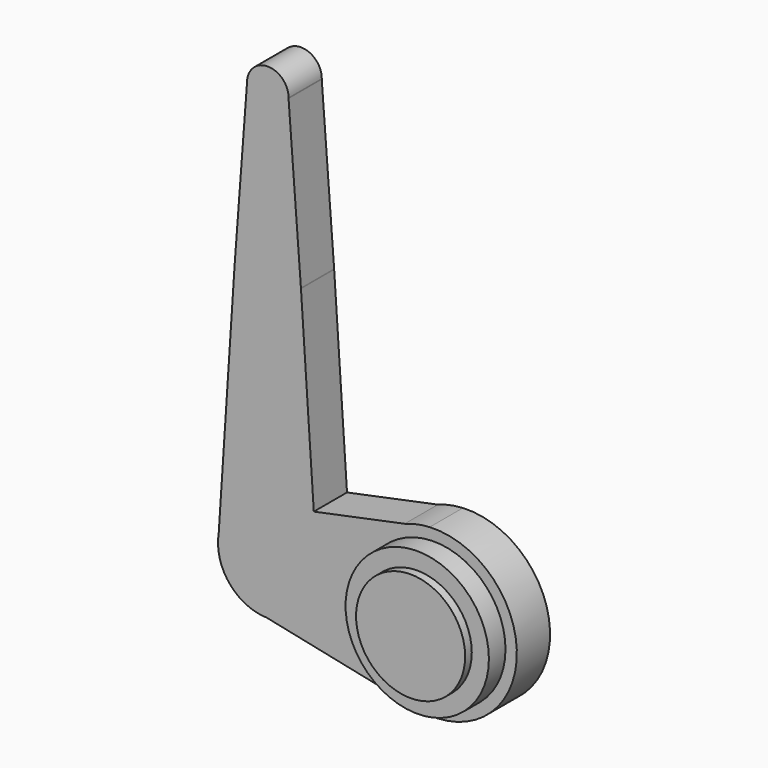
from build123d import *

# Parameters (mm, degrees)
F1_DEPTH = 50
F2_R     = 86.3227416046
F3_DEPTH = 25
F4_R     = 65.7159407402
F5_DEPTH = 10


with BuildPart() as f1:
    # F0 (on Front) → F1 (new body)
    with BuildSketch(Plane.XZ):
        with BuildLine():
            ThreePointArc((-20.4931345241, -198.7868681146), (63.0503233441, -178.5278953222), (100, -100.9092330933))
            ThreePointArc((100, -100.9092330933), (68.9263499461, -28.4581579936), (-4.983165662, -1.0334699673))
            Line((-4.983165662, -1.0334699673), (-35.1463871142, -7.2890885045))
            ThreePointArc((-35.1463871142, -7.2890885045), (-99.7085201522, -108.5388470457), (-20.4931345241, -198.7868681146))
        make_face()
        with BuildLine():
            Line((-35.1463871142, -7.2890885045), (-4.983165662, -1.0334699673))
            ThreePointArc((-4.983165662, -1.0334699673), (-20.307103248, -2.9928322317), (-35.1463871142, -7.2890885045))
        make_face()
        with BuildLine():
            Line((-201.4895329203, -160.8907410076), (-20.4931345241, -198.7868681146))
            ThreePointArc((-20.4931345241, -198.7868681146), (-99.7085201522, -108.5388470457), (-35.1463871142, -7.2890885045))
            Line((-35.1463871142, -7.2890885045), (-144.6050883957, -29.989975473))
            Line((-144.6050883957, -29.989975473), (-140.1335041643, -96.908898563))
            ThreePointArc((-140.1335041643, -96.908898563), (-140.0333853292, -98.9079522711), (-140, -100.9092330933))
            ThreePointArc((-140, -100.9092330933), (-158.1035322206, -143.8590408648), (-201.4895329203, -160.8907410076))
        make_face()
        with BuildLine():
            ThreePointArc((-259.9795126124, -102.4770553995), (-242.3987093701, -143.3633193954), (-201.4895329203, -160.8907410076))
            ThreePointArc((-201.4895329203, -160.8907410076), (-158.1035322206, -143.8590408648), (-140, -100.9092330933))
            ThreePointArc((-140, -100.9092330933), (-140.0333853292, -98.9079522711), (-140.1335041643, -96.908898563))
            ThreePointArc((-140.1335041643, -96.908898563), (-158.1101162428, -57.9530037568), (-197.505495076, -40.9611101436))
            ThreePointArc((-197.505495076, -40.9611101436), (-237.9912102248, -54.4692939713), (-259.2537512084, -91.4756246778))
            Line((-259.2537512084, -91.4756246778), (-259.9795126124, -102.4770553995))
        make_face()
        with BuildLine():
            Line((-140.1335041643, -96.908898563), (-144.6050883957, -29.989975473))
            Line((-144.6050883957, -29.989975473), (-197.505495076, -40.9611101436))
            ThreePointArc((-197.505495076, -40.9611101436), (-158.1101162428, -57.9530037568), (-140.1335041643, -96.908898563))
        make_face()
        with BuildLine():
            Line((-197.505495076, -40.9611101436), (-144.6050883957, -29.989975473))
            Line((-144.6050883957, -29.989975473), (-160.0662830286, 201.3925594364))
            ThreePointArc((-160.0662830286, 201.3925594364), (-160.016574191, 200.2421402486), (-160, 199.0907669067))
            ThreePointArc((-160, 199.0907669067), (-201.1288321578, 159.1066983549), (-239.936286898, 201.3475320257))
            Line((-239.936286898, 201.3475320257), (-259.2537512084, -91.4756246778))
            ThreePointArc((-259.2537512084, -91.4756246778), (-237.9912102248, -54.4692939713), (-197.505495076, -40.9611101436))
        make_face()
        with BuildLine():
            ThreePointArc((-259.2537512084, -91.4756246778), (-259.8698644546, -96.9596343563), (-259.9795126124, -102.4770553995))
            Line((-259.9795126124, -102.4770553995), (-259.2537512084, -91.4756246778))
        make_face()
        with BuildLine():
            Line((-160.1150603833, 202.1225307119), (-160.0662830286, 201.3925594364))
            ThreePointArc((-160.0662830286, 201.3925594364), (-160.0890027762, 201.7576565936), (-160.1150603833, 202.1225307119))
        make_face()
        with BuildLine():
            ThreePointArc((-160, 199.0907669067), (-160.016574191, 200.2421402486), (-160.0662830286, 201.3925594364))
            Line((-160.0662830286, 201.3925594364), (-160.1150603833, 202.1225307119))
            ThreePointArc((-160.1150603833, 202.1225307119), (-200.0113479884, 239.090765297), (-239.8866534174, 202.0998995332))
            Line((-239.8866534174, 202.0998995332), (-239.936286898, 201.3475320257))
            ThreePointArc((-239.936286898, 201.3475320257), (-201.1288321578, 159.1066983549), (-160, 199.0907669067))
        make_face()
        with BuildLine():
            ThreePointArc((-239.8866534174, 202.0998995332), (-200.0113479884, 239.090765297), (-160.1150603833, 202.1225307119))
            Line((-160.1150603833, 202.1225307119), (-175.0170289676, 398.1681844469))
            ThreePointArc((-175.0170289676, 398.1681844469), (-200.6469460036, 374.0991390912), (-224.9972436015, 399.4619977333))
            Line((-224.9972436015, 399.4619977333), (-239.8866534174, 202.0998995332))
        make_face()
        with BuildLine():
            ThreePointArc((-239.8866534174, 202.0998995332), (-239.9132429698, 201.7238327314), (-239.936286898, 201.3475320257))
            Line((-239.936286898, 201.3475320257), (-239.8866534174, 202.0998995332))
        make_face()
        with BuildLine():
            ThreePointArc((-224.9972436015, 399.4619977333), (-200.6469460036, 374.0991390912), (-175.0170289676, 398.1681844469))
            ThreePointArc((-175.0170289676, 398.1681844469), (-175.0042576044, 398.6293971036), (-175, 399.0907669067))
            ThreePointArc((-175, 399.0907669067), (-198.3044384925, 424.033202056), (-224.7700056939, 402.4740815422))
            Line((-224.7700056939, 402.4740815422), (-224.9972436015, 399.4619977333))
        make_face()
        with BuildLine():
            ThreePointArc((-224.7700056939, 402.4740815422), (-224.9291583858, 400.9714747983), (-224.9972436015, 399.4619977333))
            Line((-224.9972436015, 399.4619977333), (-224.7700056939, 402.4740815422))
        make_face()
    extrude(amount=F1_DEPTH)

    # F2 (on face) → F3 (join)
    with BuildSketch(Plane.XZ.offset(50)):
        with Locations((0, -100.9092330933)):
            Circle(F2_R)
    extrude(amount=F3_DEPTH)

    # F4 (on face) → F5 (join)
    with BuildSketch(Plane.XZ.offset(75)):
        with Locations((0, -100.9092330933)):
            Circle(F4_R)
    extrude(amount=F5_DEPTH)


solid = f1.part
